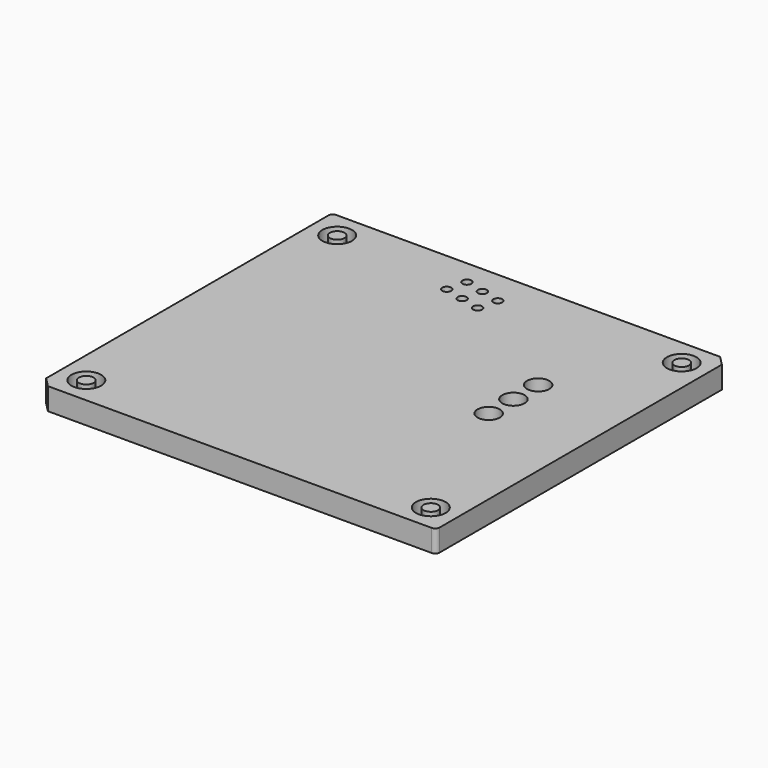
from build123d import *

# Parameters (mm, degrees)
SKETCH_R      = 6.72
SKETCH_R_2    = 5.05
SKETCH_R_3    = 2.025
SKETCH_R_4    = 3.3
EXTRUDE_DEPTH = 10


with BuildPart() as part:
    # Sketch → Extrude (new body)
    with BuildSketch(Plane.XY):
        with BuildLine():
            ThreePointArc((2, 166), (0.585786, 165.414214), (0, 164))
            Line((0, 4.242641), (0, 164))
            Line((0, 4.242641), (4.242641, 0))
            Line((4.242641, 0), (178, 0))
            ThreePointArc((178, 0), (179.414214, 0.585786), (180, 2))
            Line((180, 161.757359), (180, 2))
            Line((175.757359, 166), (180, 161.757359))
            Line((175.757359, 166), (2, 166))
        make_face()
        with Locations((12, 154)):
            Circle(SKETCH_R, mode=Mode.SUBTRACT)
        with Locations((168, 154)):
            Circle(SKETCH_R, mode=Mode.SUBTRACT)
        with Locations((168, 12)):
            Circle(SKETCH_R, mode=Mode.SUBTRACT)
        with Locations((12, 12)):
            Circle(SKETCH_R, mode=Mode.SUBTRACT)
        with Locations((139, 109)):
            Circle(SKETCH_R_2, mode=Mode.SUBTRACT)
        with Locations((139, 95)):
            Circle(SKETCH_R_2, mode=Mode.SUBTRACT)
        with Locations((139, 81)):
            Circle(SKETCH_R_2, mode=Mode.SUBTRACT)
        with Locations((70.177297, 154.732662)):
            Circle(SKETCH_R_3, mode=Mode.SUBTRACT)
        with Locations((78.909959, 152.555364)):
            Circle(SKETCH_R_3, mode=Mode.SUBTRACT)
        with Locations((87.64262, 150.378067)):
            Circle(SKETCH_R_3, mode=Mode.SUBTRACT)
        with Locations((68, 146)):
            Circle(SKETCH_R_3, mode=Mode.SUBTRACT)
        with Locations((76.732662, 143.822703)):
            Circle(SKETCH_R_3, mode=Mode.SUBTRACT)
        with Locations((85.465323, 141.645406)):
            Circle(SKETCH_R_3, mode=Mode.SUBTRACT)
        with Locations((12, 154)):
            Circle(SKETCH_R_4)
        with Locations((168, 154)):
            Circle(SKETCH_R_4)
        with Locations((168, 12)):
            Circle(SKETCH_R_4)
        with Locations((12, 12)):
            Circle(SKETCH_R_4)
    extrude(amount=EXTRUDE_DEPTH)


solid = part.part
